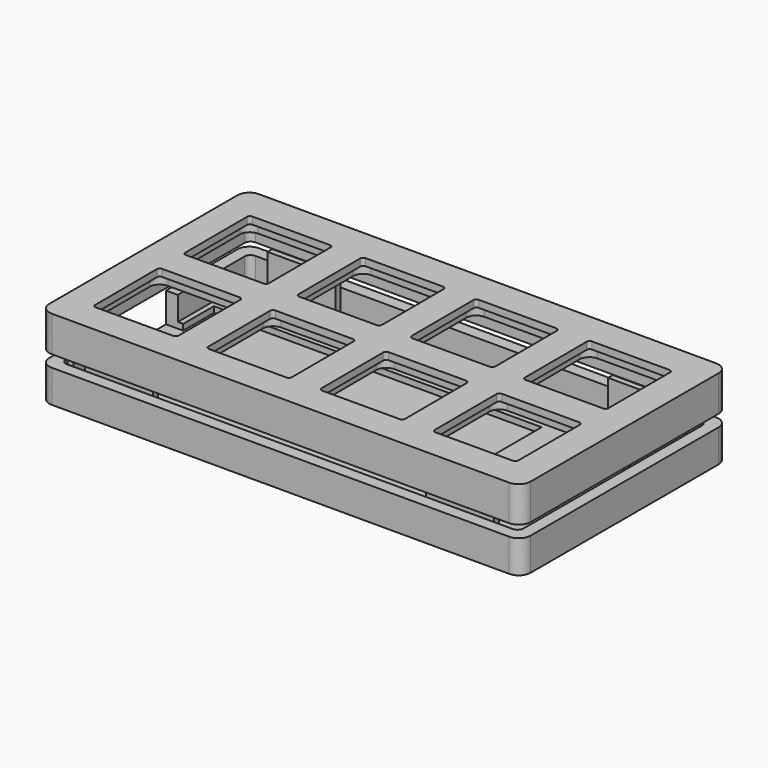
from build123d import *

# Parameters (mm, degrees)
PAD_DEPTH         = 3
POCKET_DEPTH      = 1.8
PAD001_DEPTH      = 3
PAD002_DEPTH      = 4
PAD003_DEPTH      = 1.5
PAD004_DEPTH      = 6
PAD004_DEPTH_BACK = 1.5
SKETCH007_W       = 55.1
SKETCH007_H       = 23.3
POCKET001_DEPTH   = 1
SKETCH008_W       = 11
SKETCH008_H       = 5
POCKET002_DEPTH   = 5


with BuildPart() as obj1:
    # Sketch → Pad (new body)
    with BuildSketch(Plane.XY):
        with BuildLine():
            ThreePointArc((-2.000004, -67.505568), (-1.414216, -68.919783), (0, -69.505568))
            Line((76.903575, -69.505424), (0, -69.505568))
            ThreePointArc((76.903575, -69.505424), (78.317292, -68.92013), (78.903571, -67.506821))
            Line((78.931121, -28.043661), (78.903571, -67.506821))
            ThreePointArc((78.931121, -28.043661), (78.346322, -26.629039), (76.932518, -26.042265))
            Line((76.932518, -26.042265), (0.001393, -25.988557))
            ThreePointArc((0.001393, -25.988557), (-1.413724, -26.573849), (-2.000004, -27.988557))
            Line((-2.000004, -27.988557), (-2.000004, -67.505568))
        make_face()
        with BuildLine():
            Line((2.807899, -31.990385), (2.844202, -44.990336))
            ThreePointArc((2.844202, -44.990336), (2.991635, -45.343479), (3.345596, -45.488938))
            Line((16.345522, -45.443535), (3.345596, -45.488938))
            ThreePointArc((16.345522, -45.443535), (16.698665, -45.296101), (16.844124, -44.94214))
            Line((16.807846, -31.95129), (16.844124, -44.94214))
            ThreePointArc((16.807846, -31.95129), (16.660413, -31.598147), (16.306452, -31.452687))
            Line((16.306452, -31.452687), (3.306501, -31.48899))
            ThreePointArc((3.306501, -31.48899), (2.953358, -31.636424), (2.807899, -31.990385))
        make_face(mode=Mode.SUBTRACT)
        with BuildLine():
            Line((16.359559, -50.470613), (3.359609, -50.506917))
            ThreePointArc((3.359609, -50.506917), (3.006466, -50.654351), (2.861007, -51.008311))
            Line((2.861007, -51.008311), (2.897311, -64.008261))
            ThreePointArc((2.897311, -64.008261), (3.044745, -64.361403), (3.398705, -64.506862))
            Line((16.398629, -64.46156), (3.398705, -64.506862))
            ThreePointArc((16.398629, -64.46156), (16.751773, -64.314126), (16.897231, -63.960164))
            Line((16.860954, -50.969216), (16.897231, -63.960164))
            ThreePointArc((16.860954, -50.969216), (16.71352, -50.616073), (16.359559, -50.470613))
        make_face(mode=Mode.SUBTRACT)
        with BuildLine():
            Line((21.807846, -31.95129), (21.844149, -44.951242))
            ThreePointArc((21.844149, -44.951242), (21.991583, -45.304384), (22.345544, -45.449843))
            Line((35.345469, -45.404441), (22.345544, -45.449843))
            ThreePointArc((35.345469, -45.404441), (35.698612, -45.257007), (35.844071, -44.903045))
            Line((35.807794, -31.912197), (35.844071, -44.903045))
            ThreePointArc((35.807794, -31.912197), (35.66036, -31.559053), (35.306399, -31.413594))
            Line((35.306399, -31.413594), (22.306448, -31.449896))
            ThreePointArc((22.306448, -31.449896), (21.953305, -31.59733), (21.807846, -31.95129))
        make_face(mode=Mode.SUBTRACT)
        with BuildLine():
            Line((35.359508, -50.431519), (22.359556, -50.467822))
            ThreePointArc((22.359556, -50.467822), (22.006414, -50.615255), (21.860955, -50.969216))
            Line((21.860955, -50.969216), (21.897257, -63.969166))
            ThreePointArc((21.897257, -63.969166), (22.044691, -64.322309), (22.398652, -64.467768))
            Line((35.398578, -64.422466), (22.398652, -64.467768))
            ThreePointArc((35.398578, -64.422466), (35.751721, -64.275032), (35.89718, -63.921071))
            Line((35.860902, -50.930122), (35.89718, -63.921071))
            ThreePointArc((35.860902, -50.930122), (35.713469, -50.576978), (35.359508, -50.431519))
        make_face(mode=Mode.SUBTRACT)
        with BuildLine():
            Line((40.807794, -31.912196), (40.844096, -44.912145))
            ThreePointArc((40.844096, -44.912145), (40.991529, -45.265288), (41.34549, -45.410747))
            Line((54.345416, -45.365344), (41.34549, -45.410747))
            ThreePointArc((54.345416, -45.365344), (54.698558, -45.217911), (54.844017, -44.86395))
            Line((54.80774, -31.873102), (54.844017, -44.86395))
            ThreePointArc((54.80774, -31.873102), (54.660307, -31.519958), (54.306346, -31.374499))
            Line((54.306346, -31.374499), (41.306396, -31.410802))
            ThreePointArc((41.306396, -31.410802), (40.953253, -31.558235), (40.807794, -31.912196))
        make_face(mode=Mode.SUBTRACT)
        with BuildLine():
            Line((54.359454, -50.392425), (41.359503, -50.428727))
            ThreePointArc((41.359503, -50.428727), (41.00636, -50.576161), (40.860901, -50.930122))
            Line((40.860901, -50.930122), (40.897205, -63.930072))
            ThreePointArc((40.897205, -63.930072), (41.044638, -64.283215), (41.398599, -64.428674))
            Line((54.398524, -64.38337), (41.398599, -64.428674))
            ThreePointArc((54.398524, -64.38337), (54.751667, -64.235936), (54.897126, -63.881975))
            Line((54.860848, -50.891027), (54.897126, -63.881975))
            ThreePointArc((54.860848, -50.891027), (54.713415, -50.537884), (54.359454, -50.392425))
        make_face(mode=Mode.SUBTRACT)
        with BuildLine():
            Line((59.80774, -31.873102), (59.844043, -44.873052))
            ThreePointArc((59.844043, -44.873052), (59.991477, -45.226195), (60.345437, -45.371654))
            Line((73.345362, -45.32625), (60.345437, -45.371654))
            ThreePointArc((73.345362, -45.32625), (73.698505, -45.178816), (73.843964, -44.824855))
            Line((73.807687, -31.834006), (73.843964, -44.824855))
            ThreePointArc((73.807687, -31.834006), (73.660253, -31.480863), (73.306292, -31.335403))
            Line((73.306292, -31.335403), (60.306342, -31.371707))
            ThreePointArc((60.306342, -31.371707), (59.953199, -31.519141), (59.80774, -31.873102))
        make_face(mode=Mode.SUBTRACT)
        with BuildLine():
            Line((73.359401, -50.353329), (60.35945, -50.389633))
            ThreePointArc((60.35945, -50.389633), (60.006307, -50.537067), (59.860848, -50.891027))
            Line((59.860848, -50.891027), (59.897152, -63.890977))
            ThreePointArc((59.897152, -63.890977), (60.044586, -64.24412), (60.398547, -64.389579))
            Line((73.398472, -64.344276), (60.398547, -64.389579))
            ThreePointArc((73.398472, -64.344276), (73.751615, -64.196842), (73.897073, -63.84288))
            Line((73.860796, -50.851932), (73.897073, -63.84288))
            ThreePointArc((73.860796, -50.851932), (73.713362, -50.498789), (73.359401, -50.353329))
        make_face(mode=Mode.SUBTRACT)
    extrude(amount=PAD_DEPTH)

    # Sketch002 → Pocket (cut)
    with BuildSketch(Plane.XY):
        with BuildLine():
            Line((18.007892, -31.965939), (18.044168, -44.956788))
            ThreePointArc((16.349762, -46.66153), (17.549906, -46.15996), (18.044168, -44.956788))
            Line((16.349762, -46.66153), (3.348995, -46.706933))
            ThreePointArc((1.644257, -45.011689), (2.145531, -46.212373), (3.348995, -46.706933))
            Line((1.607954, -32.011733), (1.644257, -45.011689))
            ThreePointArc((3.303201, -30.306996), (2.102515, -30.808268), (1.607954, -32.011733))
            Line((16.303153, -30.270692), (3.303201, -30.306996))
            ThreePointArc((18.007892, -31.965939), (17.506619, -30.765253), (16.303153, -30.270692))
        make_face()
        with BuildLine():
            Line((18.060951, -50.965866), (18.097227, -63.956715))
            ThreePointArc((16.402821, -65.661457), (17.602965, -65.159887), (18.097227, -63.956715))
            Line((16.402821, -65.661457), (3.402054, -65.70686))
            ThreePointArc((1.697316, -64.011616), (2.198589, -65.2123), (3.402054, -65.70686))
            Line((1.661013, -51.01166), (1.697316, -64.011616))
            ThreePointArc((3.356257, -49.306922), (2.155573, -49.808195), (1.661013, -51.01166))
            Line((16.356212, -49.270619), (3.356257, -49.306922))
            ThreePointArc((18.060951, -50.965866), (17.559678, -49.76518), (16.356212, -49.270619))
        make_face()
        with BuildLine():
            Line((37.007839, -31.926845), (37.044116, -44.917694))
            ThreePointArc((35.348873, -46.622432), (36.549556, -46.121159), (37.044116, -44.917694))
            Line((35.348873, -46.622432), (22.348943, -46.667839))
            ThreePointArc((20.644204, -44.972592), (21.145477, -46.173278), (22.348943, -46.667839))
            Line((20.607901, -31.972639), (20.644204, -44.972592))
            ThreePointArc((22.303145, -30.267902), (21.102462, -30.769175), (20.607901, -31.972639))
            Line((35.303101, -30.231598), (22.303145, -30.267902))
            ThreePointArc((37.007839, -31.926845), (36.506567, -30.726159), (35.303101, -30.231598))
        make_face()
        with BuildLine():
            Line((37.060898, -50.926772), (37.097175, -63.917621))
            ThreePointArc((35.401931, -65.622363), (36.602616, -65.121088), (37.097175, -63.917621))
            Line((35.401931, -65.622363), (22.402002, -65.667766))
            ThreePointArc((20.697263, -63.972518), (21.198536, -65.173204), (22.402002, -65.667766))
            Line((20.66096, -50.972566), (20.697263, -63.972518))
            ThreePointArc((22.356204, -49.267828), (21.155521, -49.769102), (20.66096, -50.972566))
            Line((35.356159, -49.231525), (22.356204, -49.267828))
            ThreePointArc((37.060898, -50.926772), (36.559626, -49.726086), (35.356159, -49.231525))
        make_face()
        with BuildLine():
            Line((56.007786, -31.887749), (56.044062, -44.878599))
            ThreePointArc((54.348819, -46.58334), (55.549504, -46.082066), (56.044062, -44.878599))
            Line((54.348819, -46.58334), (41.348889, -46.628743))
            ThreePointArc((39.644151, -44.933496), (40.145423, -46.134182), (41.348889, -46.628743))
            Line((39.607848, -31.933543), (39.644151, -44.933496))
            ThreePointArc((41.303095, -30.228806), (40.102409, -30.730078), (39.607848, -31.933543))
            Line((54.303047, -30.192502), (41.303095, -30.228806))
            ThreePointArc((56.007786, -31.887749), (55.506513, -30.687063), (54.303047, -30.192502))
        make_face()
        with BuildLine():
            Line((56.060845, -50.887676), (56.097121, -63.878526))
            ThreePointArc((54.402715, -65.583267), (55.602859, -65.081697), (56.097121, -63.878526))
            Line((54.402715, -65.583267), (41.401948, -65.62867))
            ThreePointArc((39.697209, -63.933423), (40.198482, -65.134109), (41.401948, -65.62867))
            Line((39.660907, -50.93347), (39.697209, -63.933423))
            ThreePointArc((41.356151, -49.228733), (40.155467, -49.730006), (39.660907, -50.93347))
            Line((54.356106, -49.192429), (41.356151, -49.228733))
            ThreePointArc((56.060845, -50.887676), (55.559572, -49.68699), (54.356106, -49.192429))
        make_face()
        with BuildLine():
            Line((75.007733, -31.848655), (75.044011, -44.839505))
            ThreePointArc((73.349603, -46.544246), (74.549748, -46.042676), (75.044011, -44.839505))
            Line((73.349603, -46.544246), (60.348837, -46.589649))
            ThreePointArc((58.644099, -44.894402), (59.145371, -46.095088), (60.348837, -46.589649))
            Line((58.607795, -31.894449), (58.644099, -44.894402))
            ThreePointArc((60.303039, -30.189712), (59.102356, -30.690985), (58.607795, -31.894449))
            Line((73.302994, -30.153408), (60.303039, -30.189712))
            ThreePointArc((75.007733, -31.848655), (74.506461, -30.647969), (73.302994, -30.153408))
        make_face()
        with BuildLine():
            Line((75.060792, -50.848582), (75.097068, -63.839431))
            ThreePointArc((73.402662, -65.544173), (74.602806, -65.042603), (75.097068, -63.839431))
            Line((73.402662, -65.544173), (60.401895, -65.589576))
            ThreePointArc((58.697157, -63.894329), (59.198429, -65.095015), (60.401895, -65.589576))
            Line((58.660854, -50.894376), (58.697157, -63.894329))
            ThreePointArc((60.356098, -49.189639), (59.155414, -49.690912), (58.660854, -50.894376))
            Line((73.356053, -49.153335), (60.356098, -49.189639))
            ThreePointArc((75.060792, -50.848582), (74.559519, -49.647896), (73.356053, -49.153335))
        make_face()
    extrude(amount=POCKET_DEPTH, mode=Mode.SUBTRACT)

    # Sketch003 → Pad001 (join)
    with BuildSketch(Plane.XY):
        with BuildLine():
            ThreePointArc((-2.000004, -67.505568), (-1.414216, -68.919783), (0, -69.505568))
            Line((76.903575, -69.505424), (0, -69.505568))
            ThreePointArc((76.903575, -69.505424), (78.317292, -68.92013), (78.903571, -67.506821))
            Line((78.931121, -28.043661), (78.903571, -67.506821))
            ThreePointArc((78.931121, -28.043661), (78.346322, -26.629039), (76.932518, -26.042265))
            Line((76.932518, -26.042265), (0.001393, -25.988557))
            ThreePointArc((0.001393, -25.988557), (-1.413724, -26.573849), (-2.000004, -27.988557))
            Line((-2.000004, -27.988557), (-2.000004, -67.505568))
        make_face()
        with BuildLine():
            ThreePointArc((1.000694, -27.989255), (0.293383, -28.281655), (-4e-06, -28.988557))
            Line((-4e-06, -28.988557), (-0.026196, -66.504868))
            ThreePointArc((-0.026196, -66.504868), (0.266451, -67.212427), (0.973806, -67.505566))
            Line((75.904271, -67.505426), (0.973806, -67.505566))
            ThreePointArc((75.904271, -67.505426), (76.61113, -67.212779), (76.904269, -66.506124))
            Line((76.930424, -29.042264), (76.904269, -66.506124))
            ThreePointArc((76.930424, -29.042264), (76.638024, -28.334953), (75.931122, -28.041566))
            Line((75.931122, -28.041566), (1.000694, -27.989255))
        make_face(mode=Mode.SUBTRACT)
    extrude(amount=-PAD001_DEPTH)


with BuildPart() as obj2:
    # Sketch004 → Pad002 (new body)
    with BuildSketch(Plane.XY):
        with BuildLine():
            ThreePointArc((-2.000004, -67.505568), (-1.414216, -68.919783), (0, -69.505568))
            Line((76.903575, -69.505424), (0, -69.505568))
            ThreePointArc((76.903575, -69.505424), (78.317292, -68.92013), (78.903571, -67.506821))
            Line((78.931121, -28.043661), (78.903571, -67.506821))
            ThreePointArc((78.931121, -28.043661), (78.346322, -26.629039), (76.932518, -26.042265))
            Line((76.932518, -26.042265), (0.001393, -25.988557))
            ThreePointArc((0.001393, -25.988557), (-1.413724, -26.573849), (-2.000004, -27.988557))
            Line((-2.000004, -27.988557), (-2.000004, -67.505568))
        make_face()
        with BuildLine():
            ThreePointArc((1.000694, -27.989255), (0.293383, -28.281655), (-4e-06, -28.988557))
            Line((-4e-06, -28.988557), (-0.026196, -66.504868))
            ThreePointArc((-0.026196, -66.504868), (0.266451, -67.212427), (0.973806, -67.505566))
            Line((75.904271, -67.505426), (0.973806, -67.505566))
            ThreePointArc((75.904271, -67.505426), (76.61113, -67.212779), (76.904269, -66.506124))
            Line((76.930424, -29.042264), (76.904269, -66.506124))
            ThreePointArc((76.930424, -29.042264), (76.638024, -28.334953), (75.931122, -28.041566))
            Line((75.931122, -28.041566), (1.000694, -27.989255))
        make_face(mode=Mode.SUBTRACT)
    extrude(amount=-PAD002_DEPTH)

    # Sketch005 → Pad003 (join)
    with BuildSketch(Plane.XY.offset(-4)):
        with BuildLine():
            ThreePointArc((-2.000004, -67.505568), (-1.414216, -68.919783), (0, -69.505568))
            Line((76.903575, -69.505424), (0, -69.505568))
            ThreePointArc((76.903575, -69.505424), (78.317292, -68.92013), (78.903571, -67.506821))
            Line((78.931121, -28.043661), (78.903571, -67.506821))
            ThreePointArc((78.931121, -28.043661), (78.346322, -26.629039), (76.932518, -26.042265))
            Line((76.932518, -26.042265), (0.001393, -25.988557))
            ThreePointArc((0.001393, -25.988557), (-1.413724, -26.573849), (-2.000004, -27.988557))
            Line((-2.000004, -27.988557), (-2.000004, -67.505568))
        make_face()
    extrude(amount=-PAD003_DEPTH)

    # Sketch006 → Pad004 (join, two sides)
    with BuildSketch(Plane.XY.offset(-4)) as pad004_sk:
        Polygon((15.373154, -67.405539), (15.373852, -66.405539), (3.918998, -66.405561), (3.9183, -67.405561), align=None)
        Polygon((72.678113, -67.405539), (72.678811, -66.405539), (61.223956, -66.405561), (61.223258, -67.405561), align=None)
        Polygon((15.387196, -28.098883), (15.387179, -29.098884), (3.932328, -29.090678), (3.932344, -28.090678), align=None)
        Polygon((72.69214, -28.139826), (72.692123, -29.139826), (61.237272, -29.13162), (61.237288, -28.13162), align=None)
        Polygon((76.832973, -32.230484), (75.832973, -32.229786), (75.82467, -44.123177), (76.82467, -44.123875), align=None)
        Polygon((0.09619, -66.274282), (1.09619, -66.274264), (1.096091, -60.598643), (0.096091, -60.598661), align=None)
    extrude(amount=PAD004_DEPTH)
    extrude(pad004_sk.sketch, amount=-PAD004_DEPTH_BACK)

    # Sketch007 → Pocket001 (cut)
    with BuildSketch(Plane.XY.offset(-4)):
        with Locations((28.434956, -48.188698)):
            Rectangle(SKETCH007_W, SKETCH007_H)
    extrude(amount=-POCKET001_DEPTH, mode=Mode.SUBTRACT)

    # Sketch008 (on Face2 of Pocket001) → Pocket002 (cut)
    with BuildSketch(Plane(origin=(-2.000004, 0, 0), x_dir=(0, -1, 0), z_dir=(-1, 0, 0))):
        with Locations((48.5, -2.5)):
            Rectangle(SKETCH008_W, SKETCH008_H)
    extrude(amount=-POCKET002_DEPTH, mode=Mode.SUBTRACT)


with BuildPart() as obj2_1:
    # Body001 placement: moved
    add(obj2.part.moved(Location((0, 0, -5))))


solid = Compound([obj1.part, obj2_1.part])
